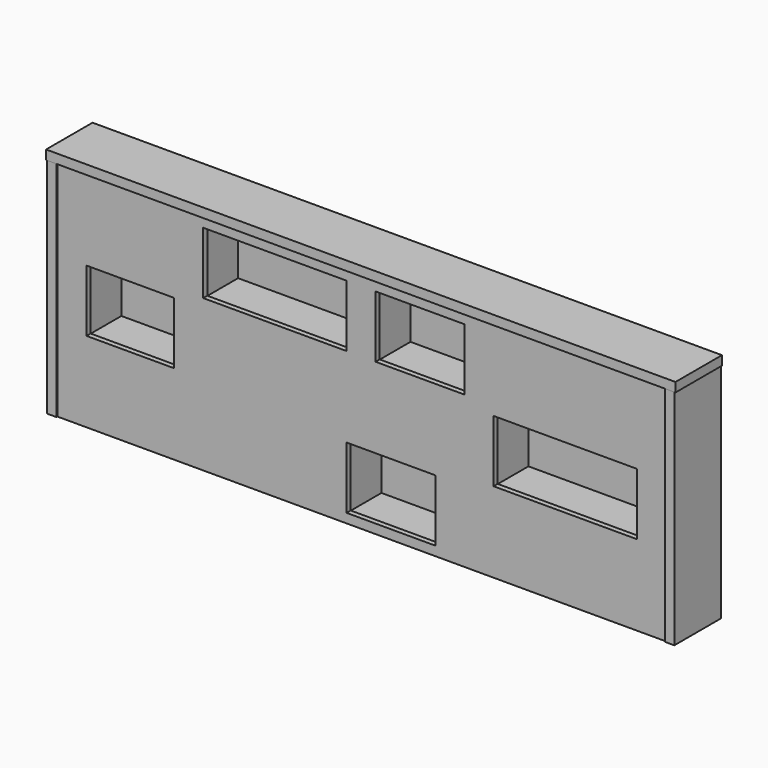
from build123d import *

# Parameters (mm, degrees)
F1_W          = 2620
F1_H          = 960
F2_DEPTH      = 22
F3_W          = 377.4858117104
F3_H          = 266.6666666667
F3_W_2        = 617.2977089882
F3_W_3        = 382.9187703133
F4_DEPTH      = 22
F5_W          = 40
F5_H          = 960
F6_DEPTH      = 5
F6_DEPTH_BACK = 255
F7_DEPTH      = 5
F7_DEPTH_BACK = 245
F8_DEPTH      = 5
F8_DEPTH_BACK = 245
F9_W          = 665.2977089882
F9_H          = 314.6666666667
F9_W_2        = 627.2977089882
F9_H_2        = 276.6666666667
F10_DEPTH     = 172
F9_W_3        = 430.9187703133
F9_W_4        = 392.9187703133
F9_W_5        = 425.4858117104
F9_W_6        = 387.4858117104
F11_W         = 665.2977089882
F11_H         = 314.6666666667
F12_DEPTH     = 19
F11_W_2       = 430.9187703133
F11_W_3       = 425.4858117104
F14_W         = 2620
F14_H         = 150
F15_DEPTH     = 22


with BuildPart() as f2:
    # F1 (on Front) → F2 (new body)
    with BuildSketch(Plane.XZ):
        with Locations((1310, 480)):
            Rectangle(F1_W, F1_H)
    extrude(amount=F2_DEPTH)

    # F3 (on face) → F4 (cut, through all)
    with BuildSketch(Plane.XZ.offset(22)):
        with Locations((313.7429058552, 480)):
            Rectangle(F3_W, F3_H)
        with Locations((936.1346662045, 786.6666666667)):
            Rectangle(F3_W_2, F3_H)
        with Locations((1561.2429058552, 786.6666666667)):
            Rectangle(F3_W_3, F3_H)
        with Locations((1436.2429058552, 173.3333333333)):
            Rectangle(F3_W_3, F3_H)
        with Locations((2186.3511455059, 480)):
            Rectangle(F3_W_2, F3_H)
    extrude(amount=-F4_DEPTH, mode=Mode.SUBTRACT)


with BuildPart() as f6:
    # F5 (on face) → F6 (new body, two sides)
    with BuildSketch(Plane.XZ.offset(22)) as f6_sk:
        with Locations((-20, 480)):
            Rectangle(F5_W, F5_H)
    extrude(amount=F6_DEPTH)
    extrude(f6_sk.sketch, amount=-F6_DEPTH_BACK)


with BuildPart() as f7:
    # F5 (on face) → F7 (new body, two sides)
    with BuildSketch(Plane.XZ.offset(22)) as f7_sk:
        with Locations((2640, 480)):
            Rectangle(F5_W, F5_H)
    extrude(amount=F7_DEPTH)
    extrude(f7_sk.sketch, amount=-F7_DEPTH_BACK)


with BuildPart() as f8:
    # F5 (on face) → F8 (new body, two sides)
    with BuildSketch(Plane.XZ.offset(22)) as f8_sk:
        Polygon((2665, 1000), (-45, 1000), (-45, 960), (-40, 960), (0, 960), (2620, 960), (2660, 960), (2665, 960), align=None)
    extrude(amount=F8_DEPTH)
    extrude(f8_sk.sketch, amount=-F8_DEPTH_BACK)


with BuildPart() as f10:
    # F9 (on face) → F10 (new body)
    with BuildSketch(Plane(origin=(0, 0, 0), x_dir=(-1, 0, 0), z_dir=(0, 1, 0))):
        with Locations((-2186.3511455059, 480)):
            Rectangle(F9_W, F9_H)
        with Locations((-2186.3511455059, 480)):
            Rectangle(F9_W_2, F9_H_2, mode=Mode.SUBTRACT)
    extrude(amount=F10_DEPTH)


with BuildPart() as f10b:
    # F9 (on face) → F10, piece 2 (new body)
    with BuildSketch(Plane(origin=(0, 0, 0), x_dir=(-1, 0, 0), z_dir=(0, 1, 0))):
        with Locations((-1561.2429058552, 786.6666666667)):
            Rectangle(F9_W_3, F9_H)
        with Locations((-1561.2429058552, 786.6666666667)):
            Rectangle(F9_W_4, F9_H_2, mode=Mode.SUBTRACT)
    extrude(amount=F10_DEPTH)


with BuildPart() as f10c:
    # F9 (on face) → F10, piece 3 (new body)
    with BuildSketch(Plane(origin=(0, 0, 0), x_dir=(-1, 0, 0), z_dir=(0, 1, 0))):
        with Locations((-936.1346662045, 786.6666666667)):
            Rectangle(F9_W, F9_H)
        with Locations((-936.1346662045, 786.6666666667)):
            Rectangle(F9_W_2, F9_H_2, mode=Mode.SUBTRACT)
    extrude(amount=F10_DEPTH)


with BuildPart() as f10d:
    # F9 (on face) → F10, piece 4 (new body)
    with BuildSketch(Plane(origin=(0, 0, 0), x_dir=(-1, 0, 0), z_dir=(0, 1, 0))):
        with Locations((-313.7429058552, 480)):
            Rectangle(F9_W_5, F9_H)
        with Locations((-313.7429058552, 480)):
            Rectangle(F9_W_6, F9_H_2, mode=Mode.SUBTRACT)
    extrude(amount=F10_DEPTH)


with BuildPart() as f10e:
    # F9 (on face) → F10, piece 5 (new body)
    with BuildSketch(Plane(origin=(0, 0, 0), x_dir=(-1, 0, 0), z_dir=(0, 1, 0))):
        with Locations((-1436.2429058552, 173.3333333333)):
            Rectangle(F9_W_3, F9_H)
        with Locations((-1436.2429058552, 173.3333333333)):
            Rectangle(F9_W_4, F9_H_2, mode=Mode.SUBTRACT)
    extrude(amount=F10_DEPTH)


with BuildPart() as f12:
    # F11 (on face) → F12 (new body)
    with BuildSketch(Plane(origin=(0, 172, 0), x_dir=(-1, 0, 0), z_dir=(0, 1, 0))):
        with Locations((-2186.3511455059, 480)):
            Rectangle(F11_W, F11_H)
    extrude(amount=F12_DEPTH)


with BuildPart() as f12b:
    # F11 (on face) → F12, piece 2 (new body)
    with BuildSketch(Plane(origin=(0, 172, 0), x_dir=(-1, 0, 0), z_dir=(0, 1, 0))):
        with Locations((-1561.2429058552, 786.6666666667)):
            Rectangle(F11_W_2, F11_H)
    extrude(amount=F12_DEPTH)


with BuildPart() as f12c:
    # F11 (on face) → F12, piece 3 (new body)
    with BuildSketch(Plane(origin=(0, 172, 0), x_dir=(-1, 0, 0), z_dir=(0, 1, 0))):
        with Locations((-936.1346662045, 786.6666666667)):
            Rectangle(F11_W, F11_H)
    extrude(amount=F12_DEPTH)


with BuildPart() as f12d:
    # F11 (on face) → F12, piece 4 (new body)
    with BuildSketch(Plane(origin=(0, 172, 0), x_dir=(-1, 0, 0), z_dir=(0, 1, 0))):
        with Locations((-1436.2429058552, 173.3333333333)):
            Rectangle(F11_W_2, F11_H)
    extrude(amount=F12_DEPTH)


with BuildPart() as f12e:
    # F11 (on face) → F12, piece 5 (new body)
    with BuildSketch(Plane(origin=(0, 172, 0), x_dir=(-1, 0, 0), z_dir=(0, 1, 0))):
        with Locations((-313.7429058552, 480)):
            Rectangle(F11_W_3, F11_H)
    extrude(amount=F12_DEPTH)


with BuildPart() as f15:
    # F14 (on offset) → F15 (new body)
    with BuildSketch(Plane(origin=(0, 218, 0), x_dir=(-1, 0, 0), z_dir=(0, 1, 0))):
        with Locations((-1310, 885)):
            Rectangle(F14_W, F14_H)
    extrude(amount=-F15_DEPTH)


with BuildPart() as f15b:
    # F14 (on offset) → F15, piece 2 (new body)
    with BuildSketch(Plane(origin=(0, 218, 0), x_dir=(-1, 0, 0), z_dir=(0, 1, 0))):
        with Locations((-1310, 125)):
            Rectangle(F14_W, F14_H)
    extrude(amount=-F15_DEPTH)


solid = Compound([f2.part, f6.part, f7.part, f8.part, f10.part, f10b.part, f10c.part, f10d.part, f10e.part, f12.part, f12b.part, f12c.part, f12d.part, f12e.part, f15.part, f15b.part])
